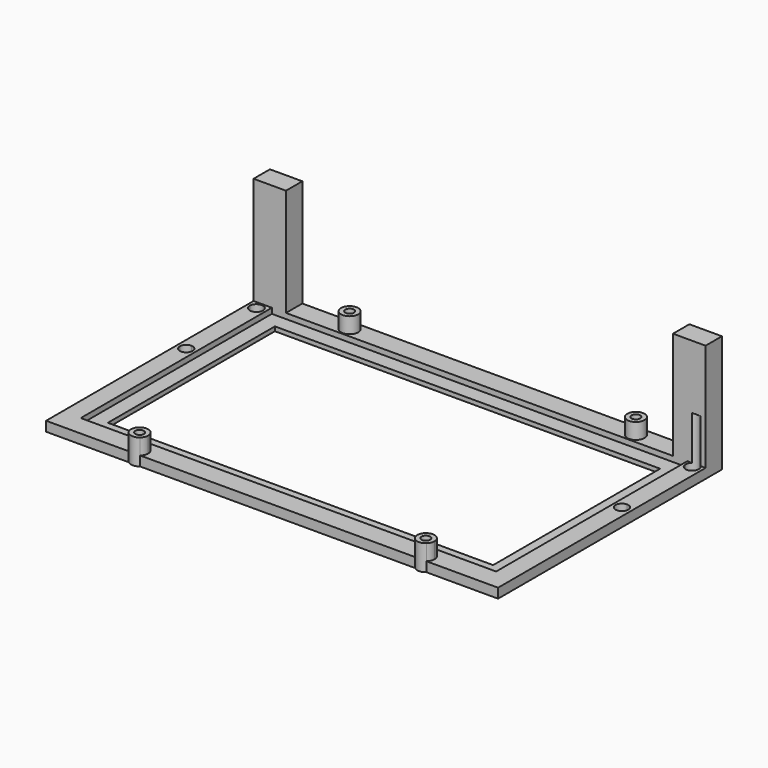
from build123d import *

# Parameters (mm, degrees)
F0_W     = 193
F0_H     = 111
F0_W_2   = 179
F0_H_2   = 97
F1_DEPTH = 2
F0_R     = 4
F0_R_2   = 2
F2_DEPTH = 4.5
F3_DEPTH = 5
F4_DEPTH = 11.85
F6_DEPTH = 50
F9_DEPTH = 25


with BuildPart() as f1:
    # F0 (on Top) → F1 (new body)
    with BuildSketch(Plane.XY):
        with Locations((38.2122632861, 15.2387920618)):
            Rectangle(F0_W, F0_H)
        with Locations((38.2122632861, 15.2387920618)):
            Rectangle(F0_W_2, F0_H_2, mode=Mode.SUBTRACT)
    extrude(amount=F1_DEPTH)

    # F0 (on Top) → F2 (join)
    with BuildSketch(Plane.XY):
        with BuildLine():
            Line((143.2122632861, 80.2387920618), (-66.7877367139, 80.2387920618))
            Line((-66.7877367139, 80.2387920618), (-66.7877367139, -49.7612079382))
            Line((-66.7877367139, -49.7612079382), (-28.393488025, -49.7612079382))
            ThreePointArc((-28.393488025, -49.7612079382), (-27.393488025, -43.1154566271), (-21.7477367139, -46.7612079382))
            ThreePointArc((-21.7477367139, -46.7612079382), (-22.1019854028, -48.4069592493), (-23.1019854028, -49.7612079382))
            Line((-23.1019854028, -49.7612079382), (104.606511975, -49.7612079382))
            ThreePointArc((104.606511975, -49.7612079382), (105.606511975, -43.1154566271), (111.2522632861, -46.7612079382))
            ThreePointArc((111.2522632861, -46.7612079382), (110.8980145972, -48.4069592493), (109.8980145972, -49.7612079382))
            Line((109.8980145972, -49.7612079382), (143.2122632861, -49.7612079382))
            Line((143.2122632861, -49.7612079382), (143.2122632861, 80.2387920618))
        make_face()
        with Locations((38.2122632861, 15.2387920618)):
            Rectangle(F0_W, F0_H, mode=Mode.SUBTRACT)
        with Locations((-25.7477367139, 75.2387920618)):
            Circle(F0_R, mode=Mode.SUBTRACT)
        with Locations((107.2522632861, 75.2387920618)):
            Circle(F0_R, mode=Mode.SUBTRACT)
        with Locations((-25.7477367139, 75.2387920618)):
            Circle(F0_R)
        with Locations((-25.7477367139, 75.2387920618)):
            Circle(F0_R_2, mode=Mode.SUBTRACT)
        with Locations((107.2522632861, 75.2387920618)):
            Circle(F0_R)
        with Locations((107.2522632861, 75.2387920618)):
            Circle(F0_R_2, mode=Mode.SUBTRACT)
        with BuildLine():
            ThreePointArc((-21.7477367139, -46.7612079382), (-27.393488025, -43.1154566271), (-28.393488025, -49.7612079382))
            Line((-28.393488025, -49.7612079382), (-23.1019854028, -49.7612079382))
            ThreePointArc((-23.1019854028, -49.7612079382), (-22.1019854028, -48.4069592493), (-21.7477367139, -46.7612079382))
        make_face()
        with Locations((-25.7477367139, -46.7612079382)):
            Circle(F0_R_2, mode=Mode.SUBTRACT)
        with BuildLine():
            Line((104.606511975, -49.7612079382), (109.8980145972, -49.7612079382))
            ThreePointArc((109.8980145972, -49.7612079382), (110.8980145972, -48.4069592493), (111.2522632861, -46.7612079382))
            ThreePointArc((111.2522632861, -46.7612079382), (105.606511975, -43.1154566271), (104.606511975, -49.7612079382))
        make_face()
        with Locations((107.2522632861, -46.7612079382)):
            Circle(F0_R_2, mode=Mode.SUBTRACT)
    extrude(amount=F2_DEPTH)

    # F0 (on Top) → F3 (cut)
    with BuildSketch(Plane.XY):
        with Locations((-25.7477367139, 75.2387920618)):
            Circle(F0_R_2)
        with Locations((107.2522632861, 75.2387920618)):
            Circle(F0_R_2)
        with Locations((107.2522632861, -46.7612079382)):
            Circle(F0_R_2)
        with Locations((-25.7477367139, -46.7612079382)):
            Circle(F0_R_2)
    extrude(amount=-F3_DEPTH, mode=Mode.SUBTRACT)

    # F0 (on Top) → F4 (join)
    with BuildSketch(Plane.XY):
        with Locations((-25.7477367139, 75.2387920618)):
            Circle(F0_R)
        with Locations((-25.7477367139, 75.2387920618)):
            Circle(F0_R_2, mode=Mode.SUBTRACT)
        with BuildLine():
            Line((104.606511975, -49.7612079382), (109.8980145972, -49.7612079382))
            ThreePointArc((109.8980145972, -49.7612079382), (110.8980145972, -48.4069592493), (111.2522632861, -46.7612079382))
            ThreePointArc((111.2522632861, -46.7612079382), (105.606511975, -43.1154566271), (104.606511975, -49.7612079382))
        make_face()
        with Locations((107.2522632861, -46.7612079382)):
            Circle(F0_R_2, mode=Mode.SUBTRACT)
        with BuildLine():
            ThreePointArc((104.606511975, -49.7612079382), (107.2522632861, -50.7612079382), (109.8980145972, -49.7612079382))
            Line((109.8980145972, -49.7612079382), (104.606511975, -49.7612079382))
        make_face()
        with BuildLine():
            ThreePointArc((-21.7477367139, -46.7612079382), (-27.393488025, -43.1154566271), (-28.393488025, -49.7612079382))
            Line((-28.393488025, -49.7612079382), (-23.1019854028, -49.7612079382))
            ThreePointArc((-23.1019854028, -49.7612079382), (-22.1019854028, -48.4069592493), (-21.7477367139, -46.7612079382))
        make_face()
        with Locations((-25.7477367139, -46.7612079382)):
            Circle(F0_R_2, mode=Mode.SUBTRACT)
        with BuildLine():
            Line((-23.1019854028, -49.7612079382), (-28.393488025, -49.7612079382))
            ThreePointArc((-28.393488025, -49.7612079382), (-25.7477367139, -50.7612079382), (-23.1019854028, -49.7612079382))
        make_face()
        with Locations((107.2522632861, 75.2387920618)):
            Circle(F0_R)
        with Locations((107.2522632861, 75.2387920618)):
            Circle(F0_R_2, mode=Mode.SUBTRACT)
    extrude(amount=F4_DEPTH)

    # F5 (on face) → F6 (join)
    with BuildSketch(Plane.XY.offset(4.5)):
        Polygon((128.084346652, 80.2387920618), (128.084346652, 70.7387920618), (134.7122632861, 70.7387920618), (143.2122632861, 70.7387920618), (143.2122632861, 80.2387920618), align=None)
        Polygon((-66.7877367139, 70.7387920618), (-58.2877367139, 70.7387920618), (-51.7344288528, 70.7387920618), (-51.7344288528, 80.2387920618), (-66.7877367139, 80.2387920618), align=None)
    extrude(amount=F6_DEPTH)

    # F8 (on face) → F9 (cut)
    with BuildSketch(Plane.XY):
        with BuildLine():
            Line((135.7841315883, 68.3924248103), (138.8478337268, 68.3924248103))
            Line((138.8478337268, 68.3924248103), (141.9115358654, 68.3924248103))
            ThreePointArc((141.9115358654, 68.3924248103), (138.8478337268, 71.4561269488), (135.7841315883, 68.3924248103))
        make_face()
        with BuildLine():
            Line((138.8478337268, 65.3287226717), (138.8478337268, 68.3924248103))
            Line((138.8478337268, 68.3924248103), (135.7841315883, 68.3924248103))
            ThreePointArc((135.7841315883, 68.3924248103), (136.6814691691, 66.2260602526), (138.8478337268, 65.3287226717))
        make_face()
        with BuildLine():
            Line((141.9115358654, 68.3924248103), (138.8478337268, 68.3924248103))
            Line((138.8478337268, 68.3924248103), (138.8478337268, 65.3287226717))
            ThreePointArc((138.8478337268, 65.3287226717), (141.0141982845, 66.2260602526), (141.9115358654, 68.3924248103))
        make_face()
        with BuildLine():
            ThreePointArc((141.8105147335, 27.6224248103), (140.9427655571, 29.7173566406), (138.8478337268, 30.5851058169))
            Line((138.8478337268, 30.5851058169), (138.8478337268, 27.6224248103))
            Line((138.8478337268, 27.6224248103), (140.926355011, 27.6224248103))
            Line((140.926355011, 27.6224248103), (141.8105147335, 27.6224248103))
        make_face()
        with BuildLine():
            Line((138.8478337268, 27.6224248103), (138.8478337268, 30.5851058169))
            ThreePointArc((138.8478337268, 30.5851058169), (136.7529018965, 25.52749298), (141.8105147335, 27.6224248103))
            Line((141.8105147335, 27.6224248103), (140.926355011, 27.6224248103))
            Line((140.926355011, 27.6224248103), (138.8478337268, 27.6224248103))
        make_face()
        with BuildLine():
            Line((-65.5505631859, 67.0167887692), (-62.4868610473, 67.0167887692))
            Line((-62.4868610473, 67.0167887692), (-59.4231589088, 67.0167887692))
            ThreePointArc((-59.4231589088, 67.0167887692), (-62.4868610473, 70.0804909077), (-65.5505631859, 67.0167887692))
        make_face()
        with BuildLine():
            Line((-62.4868610473, 63.9530866306), (-62.4868610473, 67.0167887692))
            Line((-62.4868610473, 67.0167887692), (-65.5505631859, 67.0167887692))
            ThreePointArc((-65.5505631859, 67.0167887692), (-64.653225605, 64.8504242115), (-62.4868610473, 63.9530866306))
        make_face()
        with BuildLine():
            Line((-59.4231589088, 67.0167887692), (-62.4868610473, 67.0167887692))
            Line((-62.4868610473, 67.0167887692), (-62.4868610473, 63.9530866306))
            ThreePointArc((-62.4868610473, 63.9530866306), (-60.3204964896, 64.8504242115), (-59.4231589088, 67.0167887692))
        make_face()
        with BuildLine():
            ThreePointArc((-59.5241800407, 26.2467887692), (-60.391929217, 28.3417205994), (-62.4868610473, 29.2094697758))
            Line((-62.4868610473, 29.2094697758), (-62.4868610473, 26.2467887692))
            Line((-62.4868610473, 26.2467887692), (-59.5241800407, 26.2467887692))
        make_face()
        with BuildLine():
            Line((-62.4868610473, 26.2467887692), (-62.4868610473, 29.2094697758))
            ThreePointArc((-62.4868610473, 29.2094697758), (-64.5817928776, 28.3417205994), (-65.449542054, 26.2467887692))
            Line((-65.449542054, 26.2467887692), (-62.4868610473, 26.2467887692))
        make_face()
        with BuildLine():
            Line((-59.5241800407, 26.2467887692), (-62.4868610473, 26.2467887692))
            Line((-62.4868610473, 26.2467887692), (-65.449542054, 26.2467887692))
            ThreePointArc((-65.449542054, 26.2467887692), (-62.4868610473, 23.2841077625), (-59.5241800407, 26.2467887692))
        make_face()
    extrude(amount=F9_DEPTH, mode=Mode.SUBTRACT)


solid = f1.part
